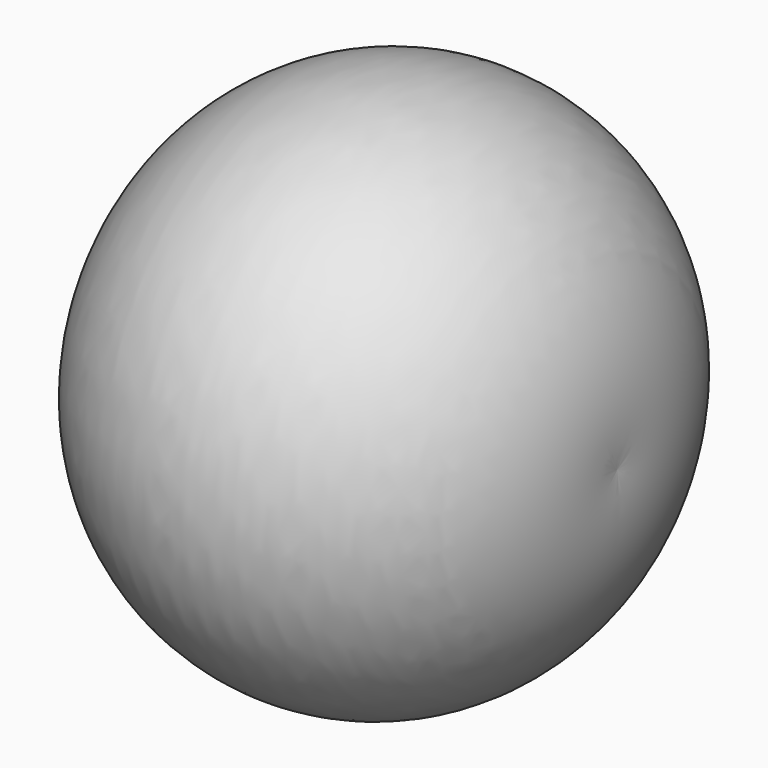
from build123d import *


with BuildPart() as f2:
    # F1 (on offset) → F2 (revolve)
    with BuildSketch(Plane.XZ.offset(48.26)):
        with BuildLine():
            Line((19.05, 0), (-19.05, 0))
            ThreePointArc((-19.05, 0), (0, -21.677421), (19.05, 0))
        make_face()
    revolve(axis=Axis((0, -48.26, 0), (1, 0, 0)))


solid = f2.part
